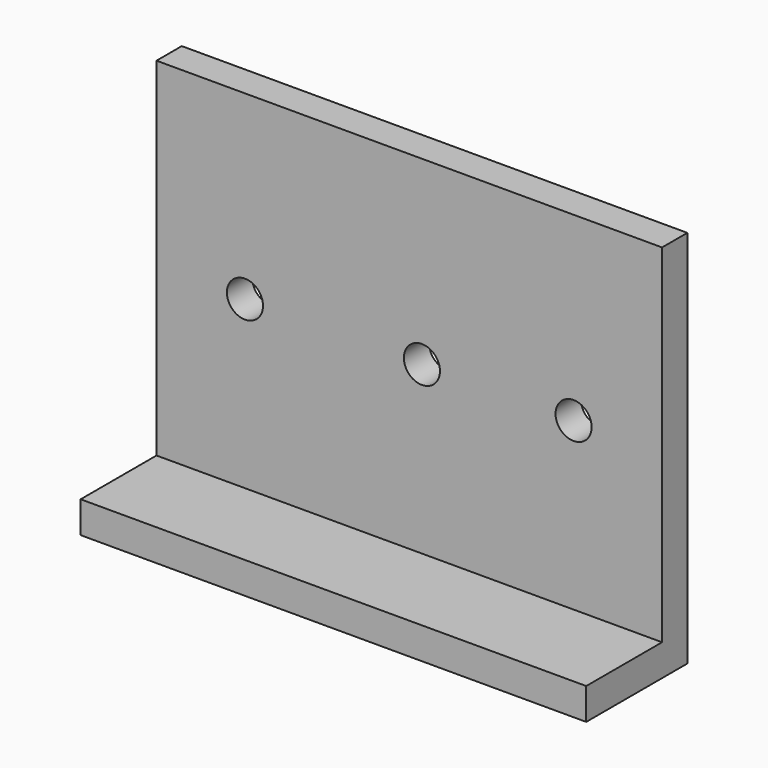
from build123d import *

# Parameters (mm, degrees)
F0_W     = 50.8
F0_H     = 34.925
F0_R     = 1.814286
F1_DEPTH = 3.175
F0_H_2   = 3.175
F2_DEPTH = 12.7


with BuildPart() as f1:
    # F0 (on Front) → F1 (new body)
    with BuildSketch(Plane.XZ):
        with Locations((-33.053351, 28.397867)):
            Rectangle(F0_W, F0_H)
        with Locations((-49.563351, 27.65909)):
            Circle(F0_R, mode=Mode.SUBTRACT)
        with Locations((-31.783351, 27.65909)):
            Circle(F0_R, mode=Mode.SUBTRACT)
        with Locations((-16.543351, 27.65909)):
            Circle(F0_R, mode=Mode.SUBTRACT)
    extrude(amount=F1_DEPTH)

    # F0 (on Front) → F2 (join)
    with BuildSketch(Plane.XZ):
        with Locations((-33.053351, 9.347867)):
            Rectangle(F0_W, F0_H_2)
    extrude(amount=F2_DEPTH)


solid = f1.part
